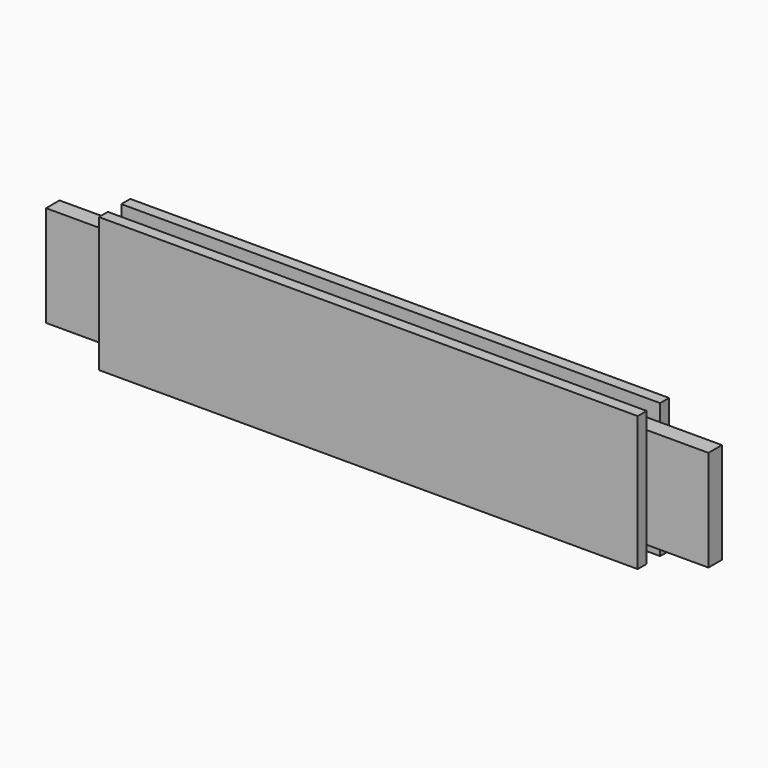
from build123d import *

# Parameters (mm, degrees)
F0_W     = 374.65
F0_H     = 76.2
F1_DEPTH = 22.225
F2_W     = 34.925
F2_H     = 6.35
F3_DEPTH = 76.2
F4_W     = 9.525
F4_H     = 9.525
F5_DEPTH = 374.65


with BuildPart() as f1:
    # F0 (on Front) → F1 (new body)
    with BuildSketch(Plane.XZ):
        with Locations((187.325, 38.1)):
            Rectangle(F0_W, F0_H)
    extrude(amount=F1_DEPTH)

    # F2 (on face) → F3 (cut, through all)
    with BuildSketch(Plane.XY.offset(76.2)):
        with Locations((17.4625, -3.175)):
            Rectangle(F2_W, F2_H)
        with Locations((17.4625, -19.05)):
            Rectangle(F2_W, F2_H)
        with Locations((357.1875, -3.175)):
            Rectangle(F2_W, F2_H)
        with Locations((357.1875, -19.05)):
            Rectangle(F2_W, F2_H)
    extrude(amount=-F3_DEPTH, mode=Mode.SUBTRACT)

    # F4 (on face) → F5 (cut, through all)
    with BuildSketch(Plane(origin=(0, 0, 0), x_dir=(0, -1, 0), z_dir=(-1, 0, 0))):
        with Locations((11.1125, 71.4375)):
            Rectangle(F4_W, F4_H)
        with Locations((11.1125, 4.7625)):
            Rectangle(F4_W, F4_H)
    extrude(amount=-F5_DEPTH, mode=Mode.SUBTRACT)


solid = f1.part
